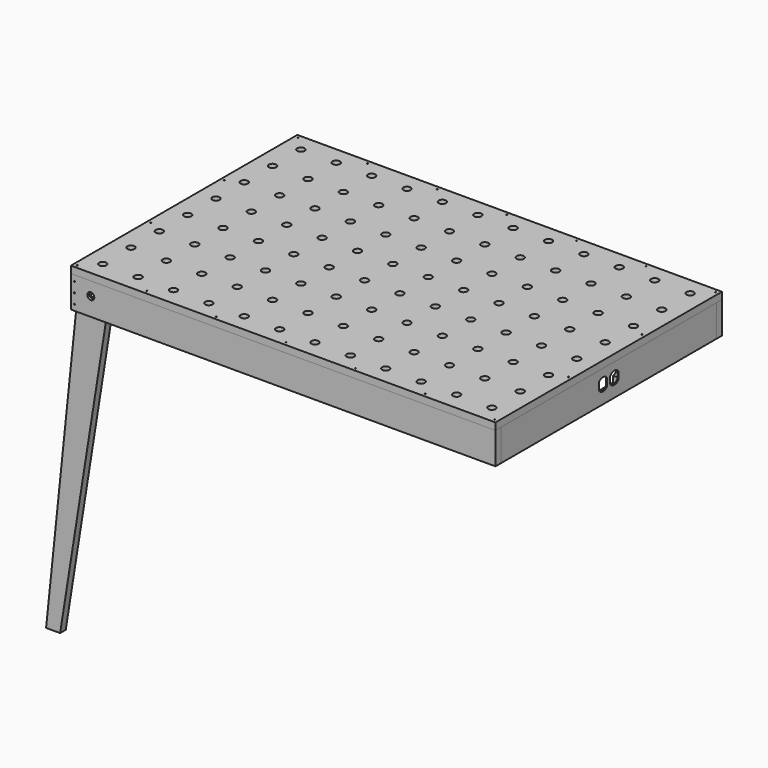
from build123d import *

# Parameters (mm, degrees)
F0_W      = 1152
F0_H      = 768
F1_DEPTH  = 19.05
F2_R      = 10
F3_DEPTH  = 19.051
F4_W      = 19.05
F4_H      = 85.95
F5_DEPTH  = 1152
F6_W      = 19.05
F6_H      = 85.95
F10_DEPTH = 729.9
F7_R      = 1.5
F11_DEPTH = 25.4
F13_DEPTH = 19.05
F14_R     = 4.7625
F15_DEPTH = 38.101
F16_R     = 9.525
F17_DEPTH = 6.35
F18_R     = 1.5
F19_DEPTH = 41.275
F20_W     = 77.7875
F20_H     = 50.8
F21_DEPTH = 15.875
F23_DEPTH = 85.726
F25_DEPTH = 15.875
F26_R     = 3.175
F27_DEPTH = 17.4625


with BuildPart() as f1:
    # F0 (on Top) → F1 (new body)
    with BuildSketch(Plane.XY):
        with Locations((576, 384)):
            Rectangle(F0_W, F0_H)
    extrude(amount=F1_DEPTH)

    # F2 (on face) → F3 (cut, through all)
    with BuildSketch(Plane.XY.offset(19.05)):
        with Locations((48, 48)):
            Circle(F2_R)
        with Locations((48, 144)):
            Circle(F2_R)
        with Locations((48, 240)):
            Circle(F2_R)
        with Locations((48, 336)):
            Circle(F2_R)
        with Locations((48, 432)):
            Circle(F2_R)
        with Locations((48, 528)):
            Circle(F2_R)
        with Locations((48, 624)):
            Circle(F2_R)
        with Locations((48, 720)):
            Circle(F2_R)
        with Locations((144, 48)):
            Circle(F2_R)
        with Locations((144, 144)):
            Circle(F2_R)
        with Locations((144, 240)):
            Circle(F2_R)
        with Locations((144, 336)):
            Circle(F2_R)
        with Locations((144, 432)):
            Circle(F2_R)
        with Locations((144, 528)):
            Circle(F2_R)
        with Locations((144, 624)):
            Circle(F2_R)
        with Locations((144, 720)):
            Circle(F2_R)
        with Locations((240, 48)):
            Circle(F2_R)
        with Locations((240, 144)):
            Circle(F2_R)
        with Locations((240, 240)):
            Circle(F2_R)
        with Locations((240, 336)):
            Circle(F2_R)
        with Locations((240, 432)):
            Circle(F2_R)
        with Locations((240, 528)):
            Circle(F2_R)
        with Locations((240, 624)):
            Circle(F2_R)
        with Locations((240, 720)):
            Circle(F2_R)
        with Locations((336, 48)):
            Circle(F2_R)
        with Locations((336, 144)):
            Circle(F2_R)
        with Locations((336, 240)):
            Circle(F2_R)
        with Locations((336, 336)):
            Circle(F2_R)
        with Locations((336, 432)):
            Circle(F2_R)
        with Locations((336, 528)):
            Circle(F2_R)
        with Locations((336, 624)):
            Circle(F2_R)
        with Locations((336, 720)):
            Circle(F2_R)
        with Locations((432, 48)):
            Circle(F2_R)
        with Locations((432, 144)):
            Circle(F2_R)
        with Locations((432, 240)):
            Circle(F2_R)
        with Locations((432, 336)):
            Circle(F2_R)
        with Locations((432, 432)):
            Circle(F2_R)
        with Locations((432, 528)):
            Circle(F2_R)
        with Locations((432, 624)):
            Circle(F2_R)
        with Locations((432, 720)):
            Circle(F2_R)
        with Locations((528, 48)):
            Circle(F2_R)
        with Locations((528, 144)):
            Circle(F2_R)
        with Locations((528, 240)):
            Circle(F2_R)
        with Locations((528, 336)):
            Circle(F2_R)
        with Locations((528, 432)):
            Circle(F2_R)
        with Locations((528, 528)):
            Circle(F2_R)
        with Locations((528, 624)):
            Circle(F2_R)
        with Locations((528, 720)):
            Circle(F2_R)
        with Locations((624, 48)):
            Circle(F2_R)
        with Locations((624, 144)):
            Circle(F2_R)
        with Locations((624, 240)):
            Circle(F2_R)
        with Locations((624, 336)):
            Circle(F2_R)
        with Locations((624, 432)):
            Circle(F2_R)
        with Locations((624, 528)):
            Circle(F2_R)
        with Locations((624, 624)):
            Circle(F2_R)
        with Locations((624, 720)):
            Circle(F2_R)
        with Locations((720, 48)):
            Circle(F2_R)
        with Locations((720, 144)):
            Circle(F2_R)
        with Locations((720, 240)):
            Circle(F2_R)
        with Locations((720, 336)):
            Circle(F2_R)
        with Locations((720, 432)):
            Circle(F2_R)
        with Locations((720, 528)):
            Circle(F2_R)
        with Locations((720, 624)):
            Circle(F2_R)
        with Locations((720, 720)):
            Circle(F2_R)
        with Locations((816, 48)):
            Circle(F2_R)
        with Locations((816, 144)):
            Circle(F2_R)
        with Locations((816, 240)):
            Circle(F2_R)
        with Locations((816, 336)):
            Circle(F2_R)
        with Locations((816, 432)):
            Circle(F2_R)
        with Locations((816, 528)):
            Circle(F2_R)
        with Locations((816, 624)):
            Circle(F2_R)
        with Locations((816, 720)):
            Circle(F2_R)
        with Locations((912, 48)):
            Circle(F2_R)
        with Locations((912, 144)):
            Circle(F2_R)
        with Locations((912, 240)):
            Circle(F2_R)
        with Locations((912, 336)):
            Circle(F2_R)
        with Locations((912, 432)):
            Circle(F2_R)
        with Locations((912, 528)):
            Circle(F2_R)
        with Locations((912, 624)):
            Circle(F2_R)
        with Locations((912, 720)):
            Circle(F2_R)
        with Locations((1008, 48)):
            Circle(F2_R)
        with Locations((1008, 144)):
            Circle(F2_R)
        with Locations((1008, 240)):
            Circle(F2_R)
        with Locations((1008, 336)):
            Circle(F2_R)
        with Locations((1008, 432)):
            Circle(F2_R)
        with Locations((1008, 528)):
            Circle(F2_R)
        with Locations((1008, 624)):
            Circle(F2_R)
        with Locations((1008, 720)):
            Circle(F2_R)
        with Locations((1104, 48)):
            Circle(F2_R)
        with Locations((1104, 144)):
            Circle(F2_R)
        with Locations((1104, 240)):
            Circle(F2_R)
        with Locations((1104, 336)):
            Circle(F2_R)
        with Locations((1104, 432)):
            Circle(F2_R)
        with Locations((1104, 528)):
            Circle(F2_R)
        with Locations((1104, 624)):
            Circle(F2_R)
        with Locations((1104, 720)):
            Circle(F2_R)
    extrude(amount=-F3_DEPTH, mode=Mode.SUBTRACT)


with BuildPart() as f5:
    # F4 (on Right) → F5 (new body, through all)
    with BuildSketch(Plane.YZ):
        with Locations((9.525, -42.975)):
            Rectangle(F4_W, F4_H)
    extrude(amount=F5_DEPTH)


with BuildPart() as f9_1:
    # F9: instance of F5
    add(f5.part.mirror(Plane(origin=(0, 384, 0), x_dir=(-1, 0, 0), z_dir=(0, 1, 0))))


with BuildPart() as f10:
    # F6 (on face) → F10 (new body, through all)
    with BuildSketch(Plane(origin=(0, 19.05, 0), x_dir=(-1, 0, 0), z_dir=(0, 1, 0))):
        with Locations((-9.525, -42.975)):
            Rectangle(F6_W, F6_H)
    extrude(amount=F10_DEPTH)


with BuildPart() as f11_tool:
    # F7 (on face) → F11 (new body)
    with BuildSketch(Plane.XY.offset(19.05)):
        with Locations((9.525, 9.525)):
            Circle(F7_R)
        with Locations((198.35, 9.525)):
            Circle(F7_R)
        with Locations((387.175, 9.525)):
            Circle(F7_R)
        with Locations((576, 9.525)):
            Circle(F7_R)
        with Locations((764.825, 9.525)):
            Circle(F7_R)
        with Locations((953.65, 9.525)):
            Circle(F7_R)
        with Locations((1142.475, 9.525)):
            Circle(F7_R)
        with Locations((9.525, 259.175)):
            Circle(F7_R)
        with Locations((9.525, 508.825)):
            Circle(F7_R)
        with Locations((9.525, 758.475)):
            Circle(F7_R)
        with Locations((1142.475, 758.475)):
            Circle(F7_R)
        with Locations((1142.475, 259.175)):
            Circle(F7_R)
        with Locations((1142.475, 508.825)):
            Circle(F7_R)
        with Locations((198.35, 758.475)):
            Circle(F7_R)
        with Locations((387.175, 758.475)):
            Circle(F7_R)
        with Locations((576, 758.475)):
            Circle(F7_R)
        with Locations((764.825, 758.475)):
            Circle(F7_R)
        with Locations((953.65, 758.475)):
            Circle(F7_R)
    extrude(amount=-F11_DEPTH)


with BuildPart() as f1_1:
    add(f1.part)

    # F11: cut by f11_tool
    add(f11_tool.part, mode=Mode.SUBTRACT)


with BuildPart() as f5_1:
    add(f5.part)

    # F11: cut by f11_tool
    add(f11_tool.part, mode=Mode.SUBTRACT)


with BuildPart() as f9_1_1:
    add(f9_1.part)

    # F11: cut by f11_tool
    add(f11_tool.part, mode=Mode.SUBTRACT)


with BuildPart() as f10_1:
    add(f10.part)

    # F11: cut by f11_tool
    add(f11_tool.part, mode=Mode.SUBTRACT)


with BuildPart() as f13:
    # F12 (on face) → F13 (new body)
    with BuildSketch(Plane(origin=(0, 19.05, 0), x_dir=(-1, 0, 0), z_dir=(0, 1, 0))):
        with BuildLine():
            Line((-88.4698770333, -41.9768465716), (44.45, -881.0625))
            Line((44.45, -881.0625), (82.55, -881.0625))
            Line((82.55, -881.0625), (0, -85.95))
            Line((0, -85.95), (-19.05, -85.95))
            Line((-19.05, -85.95), (-19.05, -36.5125))
            ThreePointArc((-19.05, -36.5125), (-56.7156244371, -1.6951967918), (-88.4698770333, -41.9768465716))
        make_face()
    extrude(amount=F13_DEPTH)


with BuildPart() as f15_tool:
    # F14 (on face) → F15 (new body, through all)
    with BuildSketch(Plane(origin=(0, 38.1, 0), x_dir=(-1, 0, 0), z_dir=(0, 1, 0))):
        with Locations((-53.975, -36.5125)):
            Circle(F14_R)
    extrude(amount=-F15_DEPTH)


with BuildPart() as f5_2:
    add(f5_1.part)

    # F15: cut by f15_tool
    add(f15_tool.part, mode=Mode.SUBTRACT)

    # F16 (on face) → F17 (cut)
    with BuildSketch(Plane.XZ):
        with Locations((53.975, -36.5125)):
            Circle(F16_R)
    extrude(amount=-F17_DEPTH, mode=Mode.SUBTRACT)


with BuildPart() as f13_1:
    add(f13.part)

    # F15: cut by f15_tool
    add(f15_tool.part, mode=Mode.SUBTRACT)


with BuildPart() as f19_tool:
    # F18 (on face) → F19 (new body)
    with BuildSketch(Plane.XZ):
        with Locations((9.525, -15.875)):
            Circle(F18_R)
        with Locations((9.525, -42.975)):
            Circle(F18_R)
        with Locations((9.525, -70.075)):
            Circle(F18_R)
    extrude(amount=-F19_DEPTH)


with BuildPart() as f5_3:
    add(f5_2.part)

    # F19: cut by f19_tool
    add(f19_tool.part, mode=Mode.SUBTRACT)


with BuildPart() as f10_2:
    add(f10_1.part)

    # F19: cut by f19_tool
    add(f19_tool.part, mode=Mode.SUBTRACT)

    # F20 (on face) → F21 (cut)
    with BuildSketch(Plane.YZ.offset(19.05)):
        with Locations((384, -38.1)):
            Rectangle(F20_W, F20_H)
    extrude(amount=-F21_DEPTH, mode=Mode.SUBTRACT)

    # F22 (on face) → F23 (cut, through all)
    with BuildSketch(Plane.YZ.offset(3.175)):
        with BuildLine():
            Line((389.1435, -28.4817804329), (389.1435, -47.7182195671))
            ThreePointArc((389.1435, -47.7182195671), (403.2405, -55.165625), (417.3375, -47.7182195671))
            Line((417.3375, -47.7182195671), (417.3375, -28.4817804329))
            ThreePointArc((417.3375, -28.4817804329), (403.2405, -21.034375), (389.1435, -28.4817804329))
        make_face()
        with BuildLine():
            Line((350.6625, -28.4817804329), (350.6625, -47.7182195671))
            ThreePointArc((350.6625, -47.7182195671), (364.7595, -55.165625), (378.8565, -47.7182195671))
            Line((378.8565, -47.7182195671), (378.8565, -28.4817804329))
            ThreePointArc((378.8565, -28.4817804329), (364.7595, -21.034375), (350.6625, -28.4817804329))
        make_face()
    extrude(amount=-F23_DEPTH, mode=Mode.SUBTRACT)

    # F24 (on face) → F25 (cut, through all)
    with BuildSketch(Plane.YZ.offset(19.05)):
        with BuildLine():
            Line((345.10625, -47.625), (345.10625, -28.575))
            ThreePointArc((345.10625, -28.575), (335.58125, -38.1), (345.10625, -47.625))
        make_face()
        with BuildLine():
            ThreePointArc((422.89375, -47.625), (432.41875, -38.1), (422.89375, -28.575))
            Line((422.89375, -28.575), (422.89375, -47.625))
        make_face()
    extrude(amount=-F25_DEPTH, mode=Mode.SUBTRACT)

    # F26 (on face) → F27 (cut)
    with BuildSketch(Plane.YZ.offset(19.05)):
        with Locations((341.534375, -38.1)):
            Circle(F26_R)
        with Locations((426.465625, -38.1)):
            Circle(F26_R)
    extrude(amount=-F27_DEPTH, mode=Mode.SUBTRACT)


with BuildPart() as f29_1:
    # F29: instance of F10
    add(f10_2.part.mirror(Plane.YZ.offset(576)))


solid = Compound([f1_1.part, f9_1_1.part, f13_1.part, f5_3.part, f10_2.part, f29_1.part])
